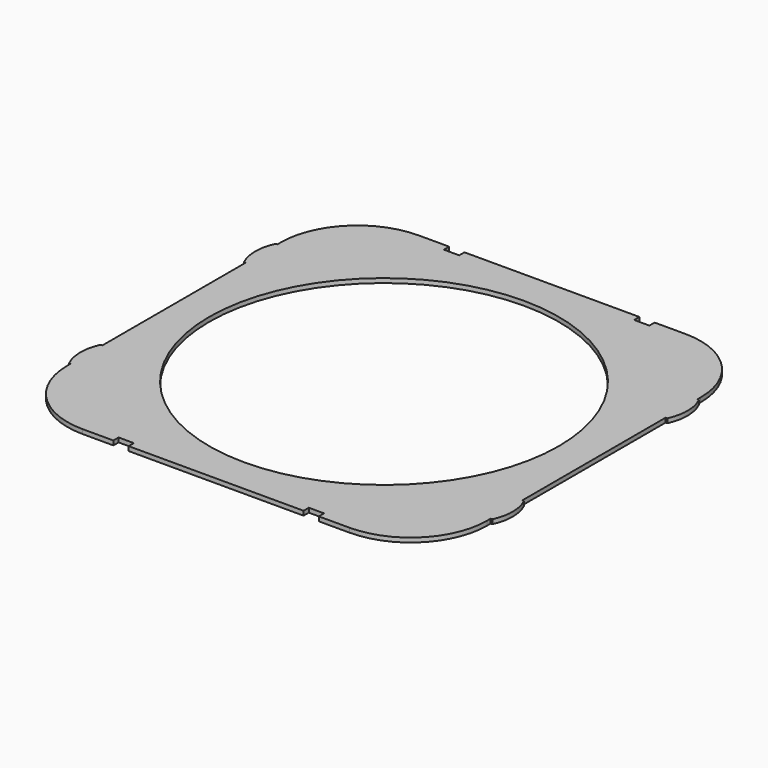
from build123d import *

# Parameters (mm, degrees)
F0_W     = 0.8
F0_H     = 18
F0_R     = 80
F1_DEPTH = 2


with BuildPart() as f1:
    # F0 (on Top) → F1 (new body)
    with BuildSketch(Plane.XY):
        with BuildLine():
            Line((-96.8, 41), (-96.8, 59))
            ThreePointArc((-96.8, 59), (-98.8, 50), (-96.8, 41))
        make_face()
        with Locations((-96.4, -50)):
            Rectangle(F0_W, F0_H)
        with BuildLine():
            Line((96.8, 59), (96, 59))
            Line((96, 59), (96, 41))
            Line((96, 41), (96.8, 41))
            ThreePointArc((96.8, 41), (98.8, 50), (96.8, 59))
        make_face()
        with BuildLine():
            Line((-96.8, -59), (-96.8, -41))
            ThreePointArc((-96.8, -41), (-98.8, -50), (-96.8, -59))
        make_face()
        with BuildLine():
            ThreePointArc((96, 61), (85.748737, 85.748737), (61, 96))
            Line((61, 96), (47, 96))
            Line((47, 96), (47, 93))
            Line((47, 93), (40, 93))
            Line((40, 93), (40, 96))
            Line((40, 96), (-40, 96))
            Line((-40, 96), (-40, 93))
            Line((-40, 93), (-47, 93))
            Line((-47, 93), (-47, 96))
            Line((-47, 96), (-61, 96))
            ThreePointArc((-61, 96), (-85.748737, 85.748737), (-96, 61))
            Line((-96, 61), (-96, 59))
            Line((-96, 59), (-96, 41))
            Line((-96, 41), (-96, -41))
            Line((-96, -41), (-96, -59))
            Line((-96, -59), (-96, -61))
            ThreePointArc((-96, -61), (-85.748737, -85.748737), (-61, -96))
            Line((-61, -96), (-47, -96))
            Line((-47, -96), (-47, -93))
            Line((-47, -93), (-40, -93))
            Line((-40, -93), (-40, -96))
            Line((-40, -96), (40, -96))
            Line((40, -96), (40, -93))
            Line((40, -93), (47, -93))
            Line((47, -93), (47, -96))
            Line((47, -96), (61, -96))
            ThreePointArc((61, -96), (85.748737, -85.748737), (96, -61))
            Line((96, -61), (96, -59))
            Line((96, -59), (96, -41))
            Line((96, -41), (96, 41))
            Line((96, 41), (96, 59))
            Line((96, 59), (96, 61))
        make_face()
        Circle(F0_R, mode=Mode.SUBTRACT)
        with Locations((-96.4, 50)):
            Rectangle(F0_W, F0_H)
        with BuildLine():
            Line((96.8, -41), (96, -41))
            Line((96, -41), (96, -59))
            Line((96, -59), (96.8, -59))
            ThreePointArc((96.8, -59), (98.8, -50), (96.8, -41))
        make_face()
    extrude(amount=F1_DEPTH)


solid = f1.part
